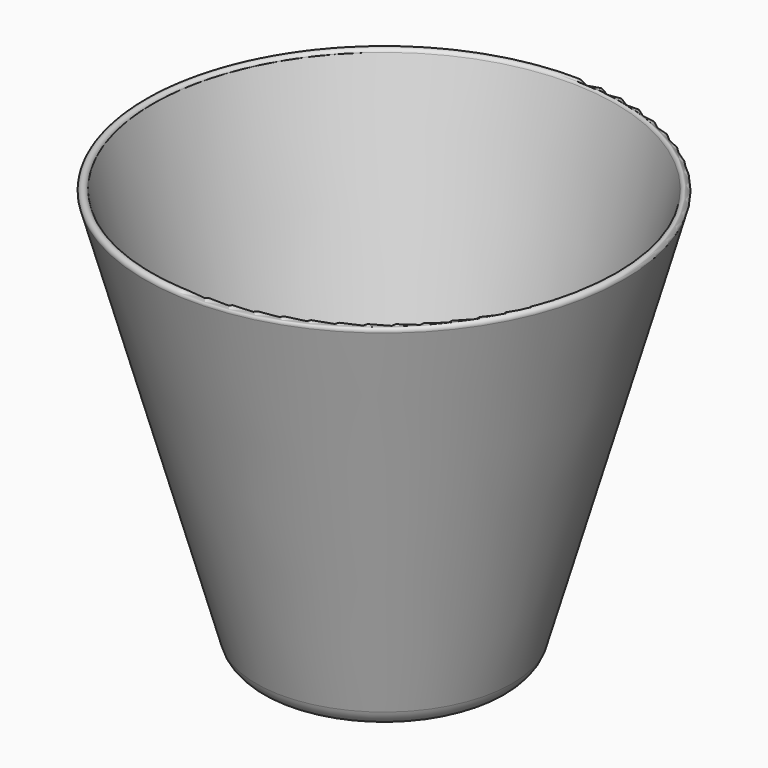
from build123d import *


with BuildPart() as f1:
    # F0 (on Front) → F1 (revolve)
    with BuildSketch(Plane.XZ):
        with BuildLine():
            Line((0, 12), (0, 0))
            Line((0, 0), (25.467497, 0))
            ThreePointArc((25.467497, 0), (29.084074, 1.212477), (31.238978, 4.359876))
            Line((31.238978, 4.359876), (58.417735, 100))
            ThreePointArc((58.417735, 100), (57.729175, 101.235268), (56.493908, 100.546708))
            Line((56.493908, 100.546708), (32.363421, 15.63323))
            ThreePointArc((32.363421, 15.63323), (30.567667, 13.010398), (27.553853, 12))
            Line((27.553853, 12), (0, 12))
        make_face()
    revolve(axis=Axis((0, 0, 6), (0, 0, -1)))


solid = f1.part
